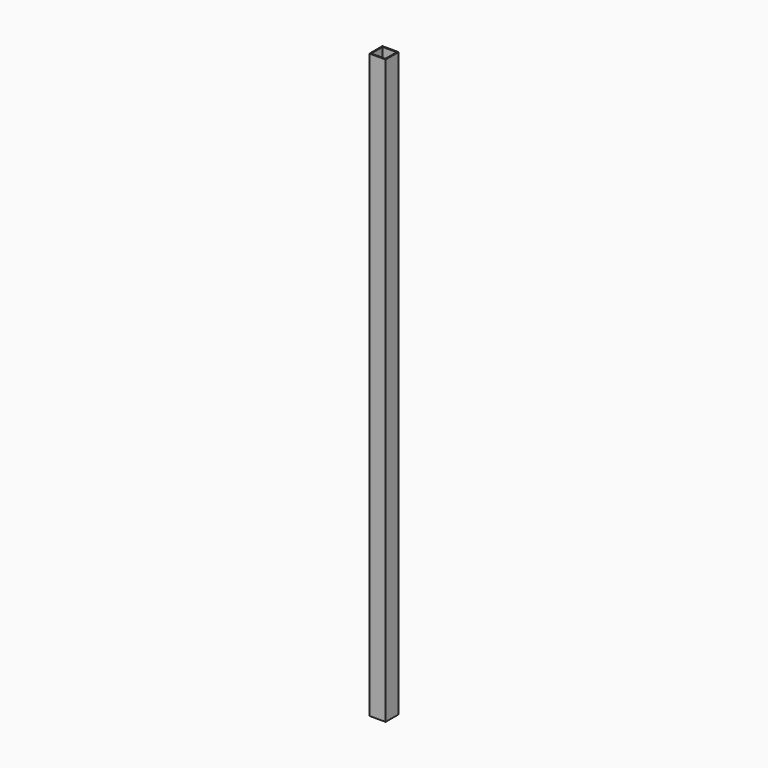
from build123d import *

# Parameters (mm, degrees)
F0_W      = 101.6
F0_H      = 101.6
F1_DEPTH  = 3657.6
F2_W      = 88.9
F2_H      = 88.9
F3_DEPTH  = 3657.6
F4_W      = 88.9
F4_H      = 88.9
F5_DEPTH  = 254
F6_W      = 88.9
F6_H      = 88.9
F7_DEPTH  = 254
F9_W      = 101.6
F9_H      = 112.826722
F10_DEPTH = 3251.2


with BuildPart() as f1:
    # F0 (on Top) → F1 (new body)
    with BuildSketch(Plane.XY):
        with Locations((50.8, -50.8)):
            Rectangle(F0_W, F0_H)
    extrude(amount=F1_DEPTH)

    # F2 (on face) → F3 (cut)
    with BuildSketch(Plane.XY.offset(3657.6)):
        with Locations((50.8, -50.8)):
            Rectangle(F2_W, F2_H)
    extrude(amount=-F3_DEPTH, mode=Mode.SUBTRACT)


with BuildPart() as f5:
    # F4 (on face) → F5 (new body)
    with BuildSketch(Plane.XY.offset(3657.6)):
        with Locations((50.8, -50.8)):
            Rectangle(F4_W, F4_H)
    extrude(amount=F5_DEPTH)

    # F6 (on face) → F7 (join)
    with BuildSketch(Plane.YZ.offset(95.25)):
        with Locations((-50.8, 3867.15)):
            Rectangle(F6_W, F6_H)
    extrude(amount=F7_DEPTH)


with BuildPart() as f5_1:
    # F8: moved
    add(f5.part.moved(Location((0, 0, -152.4))))

    # F9 (on face) → F10 (join)
    with BuildSketch(Plane.YZ.offset(349.25)):
        with Locations((-50.8, 3714.75)):
            Rectangle(F9_W, F9_H)
    extrude(amount=F10_DEPTH)


solid = f1.part
